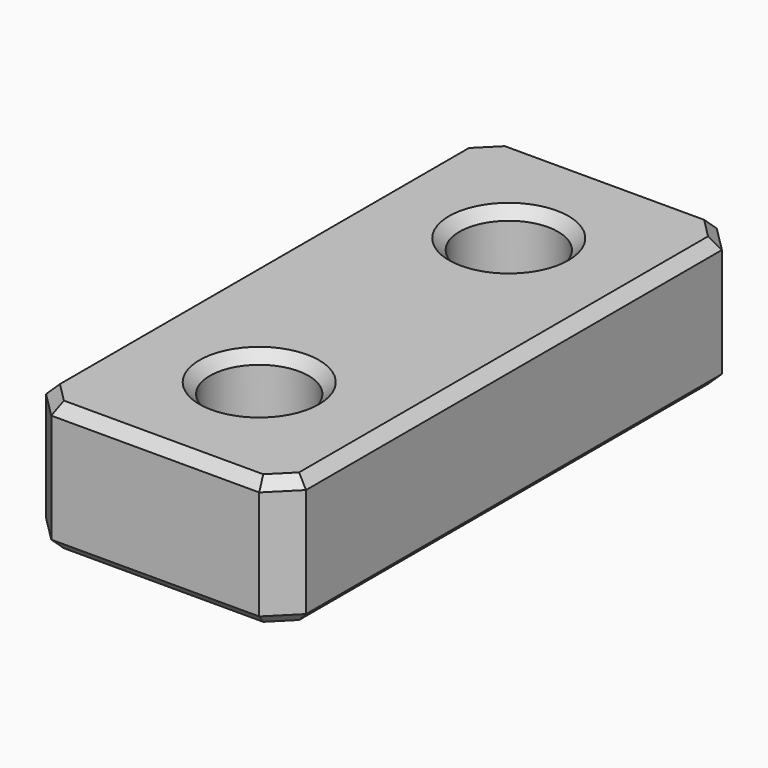
from build123d import *

# Parameters (mm, degrees)
CYLINDER017_R     = 1.9
CYLINDER017_DEPTH = 10
CYLINDER016_R     = 1.9
CYLINDER016_DEPTH = 10
BOX001_W          = 10
BOX001_H          = 22
BOX001_DEPTH      = 5
CHAMFER002_SIZE   = 1
CHAMFER003_SIZE   = 0.4


with BuildPart() as cylinder017:
    # Cylinder017 → Cylinder017 (new body)
    with BuildSketch(Plane(origin=(0, -6, 0), x_dir=(1, 0, 0), z_dir=(0, 0, 1))):
        Circle(CYLINDER017_R)
    extrude(amount=CYLINDER017_DEPTH)


with BuildPart() as fusion005:
    # Cylinder016 → Cylinder016 (new body)
    with BuildSketch(Plane(origin=(0, 6, 0), x_dir=(1, 0, 0), z_dir=(0, 0, 1))):
        Circle(CYLINDER016_R)
    extrude(amount=CYLINDER016_DEPTH)

    # Fusion005: union Cylinder017
    add(cylinder017.part)


with BuildPart() as chamfer003001:
    # Box001 → Box001 (new body)
    with BuildSketch(Plane(origin=(-5, -11, 0), x_dir=(1, 0, 0), z_dir=(0, 0, 1))):
        with Locations((5, 11)):
            Rectangle(BOX001_W, BOX001_H)
    extrude(amount=BOX001_DEPTH)

    # Chamfer002
    chamfer002_edges = [chamfer003001.edges().sort_by_distance(p)[0] for p in [
        (-5, -11, 2.5),
        (-5, 11, 2.5),
        (5, -11, 2.5),
        (5, 11, 2.5),
    ]]
    chamfer(chamfer002_edges, length=CHAMFER002_SIZE)

    # Cut001004: cut Fusion005
    add(fusion005.part, mode=Mode.SUBTRACT)

    # Chamfer003
    chamfer003_edges = [chamfer003001.edges().sort_by_distance(p)[0] for p in [
        (-5, 0, 5),
        (-5, 0, 0),
        (-4.5, -10.5, 5),
        (-4.5, 10.5, 5),
        (0, -11, 5),
        (0, 11, 5),
        (4.5, -10.5, 5),
        (4.5, 10.5, 5),
        (5, 0, 5),
        (-1.9, -6, 5),
        (-1.9, 6, 5),
        (-4.5, -10.5, 0),
        (-4.5, 10.5, 0),
        (0, -11, 0),
        (0, 11, 0),
        (4.5, -10.5, 0),
        (4.5, 10.5, 0),
        (5, 0, 0),
        (-1.9, -6, 0),
        (-1.9, 6, 0),
    ]]
    chamfer(chamfer003_edges, length=CHAMFER003_SIZE)


solid = chamfer003001.part
